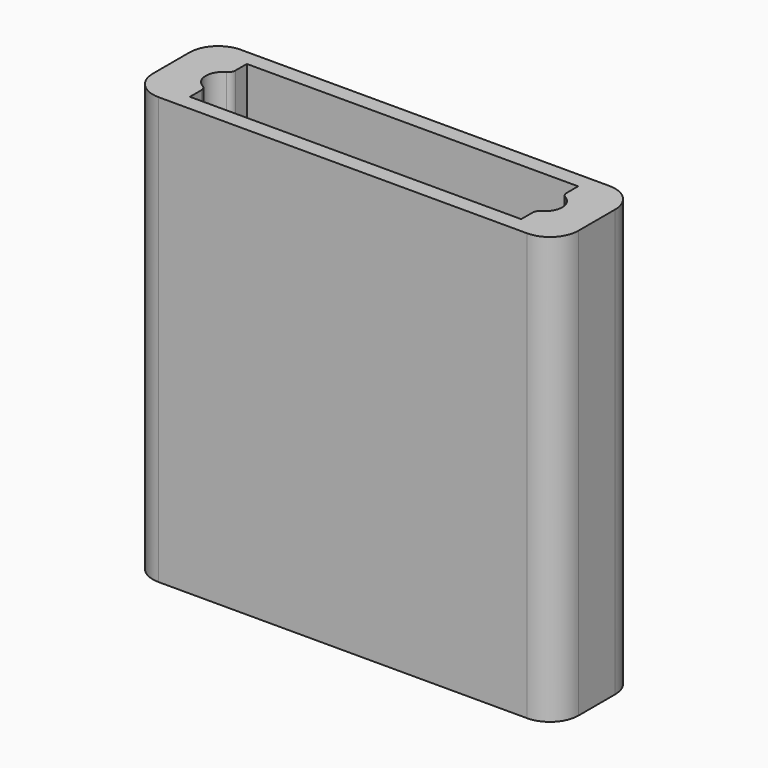
from build123d import *

# Parameters (mm, degrees)
F0_W     = 75.946
F0_H     = 18.3388
F1_DEPTH = 12.7
F2_W     = 75.946
F2_H     = 18.3388
F4_DEPTH = 25.4
F3_W     = 75.946
F3_H     = 18.3388
F5_DEPTH = 25.4
F6_R     = 1.27
F7_R     = 5.08


with BuildPart() as f1:
    # F0 (on Top) → F1 (new body, symmetric)
    with BuildSketch(Plane.XY):
        Rectangle(F0_W, F0_H)
    extrude(amount=F1_DEPTH, both=True)

    # F2 (on face) → F4 (join)
    with BuildSketch(Plane.XY.offset(12.7)):
        Rectangle(F2_W, F2_H)
        with BuildLine():
            Line((-29.5656, 2.956892), (-29.5656, 6.35))
            Line((-29.5656, 6.35), (29.5656, 6.35))
            Line((29.5656, 6.35), (29.5656, 2.956892))
            ThreePointArc((29.5656, 2.956892), (31.8008, 0), (29.5656, -2.956892))
            Line((29.5656, -2.956892), (29.5656, -6.35))
            Line((29.5656, -6.35), (-29.5656, -6.35))
            Line((-29.5656, -6.35), (-29.5656, -2.956892))
            ThreePointArc((-29.5656, -2.956892), (-31.8008, 0), (-29.5656, 2.956892))
        make_face(mode=Mode.SUBTRACT)
    extrude(amount=F4_DEPTH)

    # F3 (on face) → F5 (join)
    with BuildSketch(Plane(origin=(0, 0, -12.7), x_dir=(1, 0, 0), z_dir=(0, 0, -1))):
        Rectangle(F3_W, F3_H)
        with BuildLine():
            Line((-29.5656, 2.956892), (-29.5656, 6.35))
            Line((-29.5656, 6.35), (29.5656, 6.35))
            Line((29.5656, 6.35), (29.5656, 2.956892))
            ThreePointArc((29.5656, 2.956892), (31.8008, 0), (29.5656, -2.956892))
            Line((29.5656, -2.956892), (29.5656, -6.35))
            Line((29.5656, -6.35), (-29.5656, -6.35))
            Line((-29.5656, -6.35), (-29.5656, -2.956892))
            ThreePointArc((-29.5656, -2.956892), (-31.8008, 0), (-29.5656, 2.956892))
        make_face(mode=Mode.SUBTRACT)
    extrude(amount=F5_DEPTH)

    # F6
    f6_edges = [f1.edges().sort_by_distance(p)[0] for p in [
        (-29.5656, 2.956892, 25.4),
        (-29.5656, -2.956892, 25.4),
        (29.5656, -2.956892, 25.4),
        (29.5656, 2.956892, 25.4),
        (-29.5656, -2.956892, -25.4),
        (-29.5656, 2.956892, -25.4),
        (29.5656, 2.956892, -25.4),
        (29.5656, -2.956892, -25.4),
    ]]
    fillet(f6_edges, radius=F6_R)

    # F7
    f7_edges = [f1.edges().sort_by_distance(p)[0] for p in [
        (37.973, -9.1694, 0),
        (37.973, 9.1694, 0),
        (-37.973, -9.1694, 0),
        (-37.973, 9.1694, 0),
    ]]
    fillet(f7_edges, radius=F7_R)


solid = f1.part
